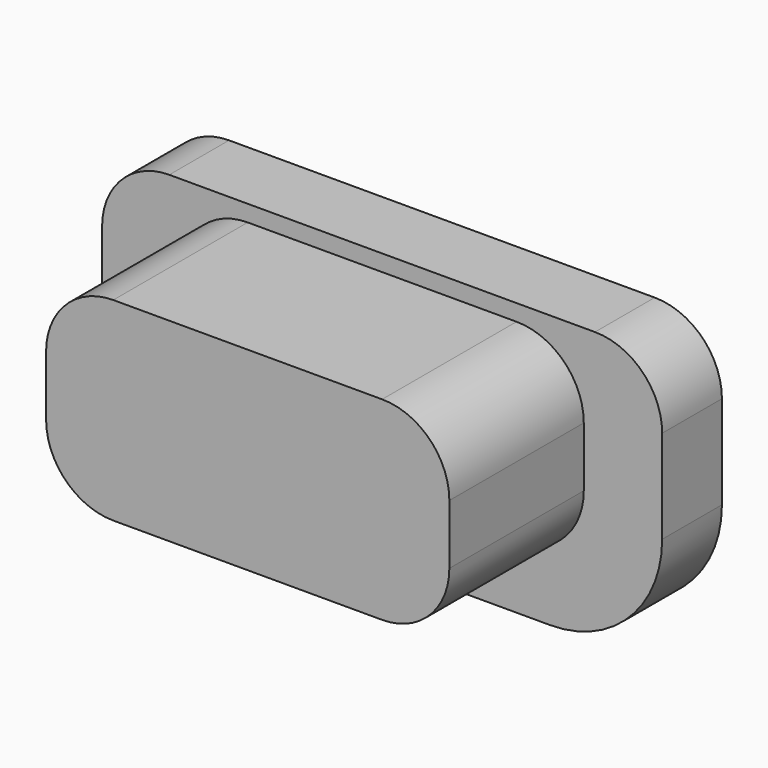
from build123d import *

# Parameters (mm, degrees)
EXTRUDE031_DEPTH = 1
EXTRUDE030_DEPTH = 2.75


with BuildPart() as extrude031:
    # Sketch034 → Extrude031 (new body)
    with BuildSketch(Plane.XZ):
        with BuildLine():
            ThreePointArc((11.7, 16.35), (11.063604, 16.086396), (10.8, 15.45))
            Line((10.8, 14.2), (10.8, 15.45))
            ThreePointArc((10.8, 14.2), (11.23934, 13.13934), (12.3, 12.7))
            Line((16.8, 12.7), (12.3, 12.7))
            ThreePointArc((16.8, 12.7), (17.86066, 13.13934), (18.3, 14.2))
            Line((18.3, 15.45), (18.3, 14.2))
            ThreePointArc((18.3, 15.45), (18.036396, 16.086396), (17.4, 16.35))
            Line((11.7, 16.35), (17.4, 16.35))
        make_face()
    extrude(amount=EXTRUDE031_DEPTH)


with BuildPart() as extrude031_1:
    # Extrude031 placement: moved
    add(extrude031.part.moved(Location((0, 2.5, 0))))


with BuildPart() as button002:
    # Sketch033 → Extrude030 (new body)
    with BuildSketch(Plane.XZ):
        with BuildLine():
            ThreePointArc((12.75, 16.13), (12.113604, 15.866396), (11.85, 15.23))
            Line((11.85, 14.43), (11.85, 15.23))
            ThreePointArc((11.85, 14.43), (12.113604, 13.793604), (12.75, 13.53))
            Line((16.35, 13.53), (12.75, 13.53))
            ThreePointArc((16.35, 13.53), (16.986396, 13.793604), (17.25, 14.43))
            Line((17.25, 15.23), (17.25, 14.43))
            ThreePointArc((17.25, 15.23), (16.986396, 15.866396), (16.35, 16.13))
            Line((12.75, 16.13), (16.35, 16.13))
        make_face()
    extrude(amount=EXTRUDE030_DEPTH)


with BuildPart() as button002_1:
    # Extrude030 placement: moved
    add(button002.part.moved(Location((0, 2, 0))))

    # Fusion033: union Extrude031
    add(extrude031_1.part)


with BuildPart() as button002_2:
    # Fusion033 placement: moved
    add(button002_1.part.moved(Location((32.45, 0, 0))))


solid = button002_2.part
